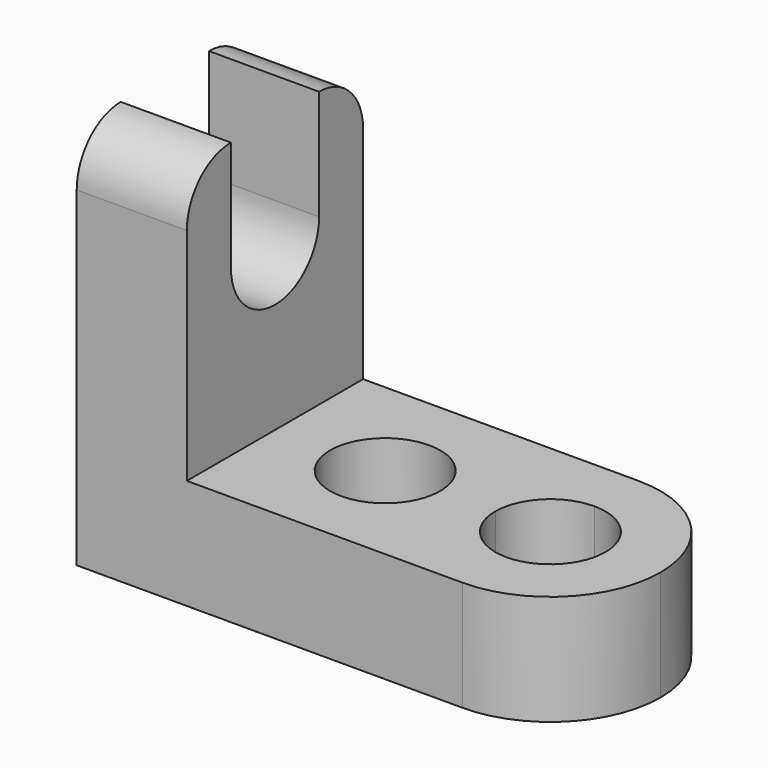
from build123d import *

# Parameters (mm, degrees)
F1_DEPTH = 25.4
F3_DEPTH = 12.701
F5_DEPTH = 12.701
F7_DEPTH = 12.701


with BuildPart() as f1:
    # F0 (on Front) → F1 (new body)
    with BuildSketch(Plane.XZ):
        Polygon((-31.9678872072, 44.45), (-44.6678872072, 44.45), (-44.6678872072, 0), (12.4821127928, 0), (12.4821127928, 12.7), (-31.9678872072, 12.7), align=None)
    extrude(amount=F1_DEPTH)

    # F2 (on face) → F3 (cut, through all)
    with BuildSketch(Plane.YZ.offset(-31.9678872072)):
        with BuildLine():
            Line((-25.4, 44.45), (-25.4, 38.1))
            ThreePointArc((-25.4, 38.1), (-23.5401280605, 42.5901280605), (-19.05, 44.45))
            Line((-19.05, 44.45), (-25.4, 44.45))
        make_face()
        with BuildLine():
            ThreePointArc((-6.35, 44.45), (-1.8598719395, 42.5901280605), (0, 38.1))
            Line((0, 38.1), (0, 44.45))
            Line((0, 44.45), (-6.35, 44.45))
        make_face()
    extrude(amount=-F3_DEPTH, mode=Mode.SUBTRACT)

    # F4 (on face) → F5 (cut, through all)
    with BuildSketch(Plane.YZ.offset(-31.9678872072)):
        with BuildLine():
            Line((-6.35, 44.45), (-19.05, 44.45))
            Line((-19.05, 44.45), (-19.05, 31.75))
            ThreePointArc((-19.05, 31.75), (-12.7, 38.1), (-6.35, 31.75))
            Line((-6.35, 31.75), (-6.35, 44.45))
        make_face()
        with BuildLine():
            Line((-6.35, 31.75), (-19.05, 31.75))
            ThreePointArc((-19.05, 31.75), (-12.7, 25.4), (-6.35, 31.75))
        make_face()
        with BuildLine():
            ThreePointArc((-6.35, 31.75), (-12.7, 38.1), (-19.05, 31.75))
            Line((-19.05, 31.75), (-6.35, 31.75))
        make_face()
    extrude(amount=-F5_DEPTH, mode=Mode.SUBTRACT)

    # F6 (on face) → F7 (cut, through all)
    with BuildSketch(Plane.XY.offset(12.7)):
        with BuildLine():
            Line((12.4821127928, 0), (-0.2178872072, 0))
            ThreePointArc((-0.2178872072, 0), (8.7623689139, -3.7197438789), (12.4821127928, -12.7))
            Line((12.4821127928, -12.7), (12.4821127928, 0))
        make_face()
        with BuildLine():
            Line((12.4821127928, -25.4), (12.4821127928, -12.7))
            ThreePointArc((12.4821127928, -12.7), (8.7623689139, -21.6802561211), (-0.2178872072, -25.4))
            Line((-0.2178872072, -25.4), (12.4821127928, -25.4))
        make_face()
        with BuildLine():
            ThreePointArc((-12.9178872072, -12.7), (-19.2678872072, -6.35), (-25.6178872072, -12.7))
            Line((-25.6178872072, -12.7), (-12.9178872072, -12.7))
        make_face()
        with BuildLine():
            Line((-12.9178872072, -12.7), (-25.6178872072, -12.7))
            ThreePointArc((-25.6178872072, -12.7), (-19.2678872072, -19.05), (-12.9178872072, -12.7))
        make_face()
        with BuildLine():
            Line((-0.2178872072, -12.7), (-0.2178872072, -6.35))
            ThreePointArc((-0.2178872072, -6.35), (-4.7080152677, -8.2098719395), (-6.5678872072, -12.7))
            Line((-6.5678872072, -12.7), (-0.2178872072, -12.7))
        make_face()
        with BuildLine():
            ThreePointArc((6.1321127928, -12.7), (4.2722408533, -8.2098719395), (-0.2178872072, -6.35))
            Line((-0.2178872072, -6.35), (-0.2178872072, -12.7))
            Line((-0.2178872072, -12.7), (6.1321127928, -12.7))
        make_face()
        with BuildLine():
            Line((6.1321127928, -12.7), (-0.2178872072, -12.7))
            Line((-0.2178872072, -12.7), (-0.2178872072, -19.05))
            ThreePointArc((-0.2178872072, -19.05), (4.2722408533, -17.1901280605), (6.1321127928, -12.7))
        make_face()
        with BuildLine():
            Line((-0.2178872072, -19.05), (-0.2178872072, -12.7))
            Line((-0.2178872072, -12.7), (-6.5678872072, -12.7))
            ThreePointArc((-6.5678872072, -12.7), (-4.7080152677, -17.1901280605), (-0.2178872072, -19.05))
        make_face()
    extrude(amount=-F7_DEPTH, mode=Mode.SUBTRACT)


solid = f1.part
